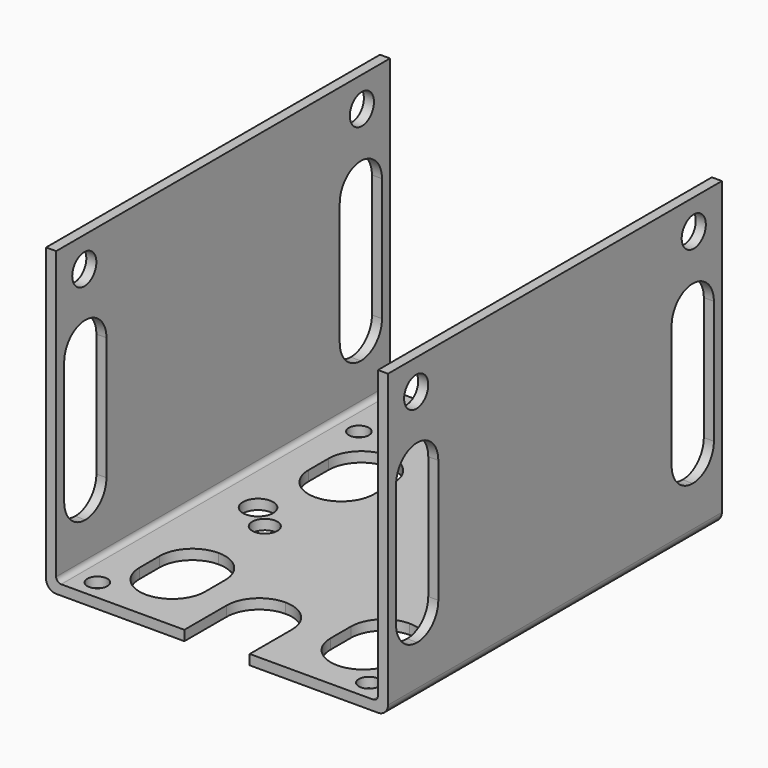
from build123d import *

# Parameters (mm, degrees)
F1_DEPTH  = 83
F3_DEPTH  = 68.001
F5_DEPTH  = 60.001
F6_R      = 3
F7_DEPTH  = 60.001
F8_R      = 2.5
F9_DEPTH  = 60.001
F10_R     = 2
F11_DEPTH = 60.001
F13_DEPTH = 60.001
F14_R     = 3
F15_DEPTH = 68.001


with BuildPart() as f1:
    # F0 (on Front) → F1 (new body)
    with BuildSketch(Plane.XZ):
        with BuildLine():
            ThreePointArc((0, 2), (0.585786, 0.585786), (2, 0))
            Line((2, 0), (66, 0))
            ThreePointArc((66, 0), (67.414214, 0.585786), (68, 2))
            Line((68, 2), (68, 60))
            Line((68, 60), (66, 60))
            Line((66, 60), (66, 3))
            ThreePointArc((66, 3), (65.707107, 2.292893), (65, 2))
            Line((65, 2), (3, 2))
            ThreePointArc((3, 2), (2.292893, 2.292893), (2, 3))
            Line((2, 3), (2, 60))
            Line((2, 60), (0, 60))
            Line((0, 60), (0, 2))
        make_face()
    extrude(amount=F1_DEPTH)

    # F2 (on face) → F3 (cut, through all)
    with BuildSketch(Plane.YZ.offset(68)):
        with BuildLine():
            Line((-81, 39.75), (-81, 15.25))
            ThreePointArc((-81, 15.25), (-79.462311, 11.537689), (-75.75, 10))
            ThreePointArc((-75.75, 10), (-72.037689, 11.537689), (-70.5, 15.25))
            Line((-70.5, 15.25), (-70.5, 39.75))
            ThreePointArc((-70.5, 39.75), (-72.037689, 43.462311), (-75.75, 45))
            ThreePointArc((-75.75, 45), (-79.462311, 43.462311), (-81, 39.75))
        make_face()
        with BuildLine():
            ThreePointArc((-7.25, 45), (-10.962311, 43.462311), (-12.5, 39.75))
            Line((-12.5, 39.75), (-12.5, 15.25))
            ThreePointArc((-12.5, 15.25), (-10.962311, 11.537689), (-7.25, 10))
            ThreePointArc((-7.25, 10), (-3.537689, 11.537689), (-2, 15.25))
            Line((-2, 15.25), (-2, 39.75))
            ThreePointArc((-2, 39.75), (-3.537689, 43.462311), (-7.25, 45))
        make_face()
    extrude(amount=-F3_DEPTH, mode=Mode.SUBTRACT)

    # F4 (on face) → F5 (cut, through all)
    with BuildSketch(Plane(origin=(0, 0, 0), x_dir=(1, 0, 0), z_dir=(0, 0, -1))):
        with BuildLine():
            Line((9, 71), (9, 66))
            ThreePointArc((9, 66), (10.903806, 61.403806), (15.5, 59.5))
            ThreePointArc((15.5, 59.5), (20.096194, 61.403806), (22, 66))
            Line((22, 66), (22, 71))
            ThreePointArc((22, 71), (20.096194, 75.596194), (15.5, 77.5))
            ThreePointArc((15.5, 77.5), (10.903806, 75.596194), (9, 71))
        make_face()
        with BuildLine():
            Line((60, 66), (60, 71))
            ThreePointArc((60, 71), (58.096194, 75.596194), (53.5, 77.5))
            ThreePointArc((53.5, 77.5), (48.903806, 75.596194), (47, 71))
            Line((47, 71), (47, 66))
            ThreePointArc((47, 66), (48.903806, 61.403806), (53.5, 59.5))
            ThreePointArc((53.5, 59.5), (58.096194, 61.403806), (60, 66))
        make_face()
        with BuildLine():
            Line((60, 24), (60, 29))
            ThreePointArc((60, 29), (58.096194, 33.596194), (53.5, 35.5))
            ThreePointArc((53.5, 35.5), (48.903806, 33.596194), (47, 29))
            Line((47, 29), (47, 24))
            ThreePointArc((47, 24), (48.903806, 19.403806), (53.5, 17.5))
            ThreePointArc((53.5, 17.5), (58.096194, 19.403806), (60, 24))
        make_face()
        with BuildLine():
            Line((22, 24), (22, 29))
            ThreePointArc((22, 29), (20.096194, 33.596194), (15.5, 35.5))
            ThreePointArc((15.5, 35.5), (10.903806, 33.596194), (9, 29))
            Line((9, 29), (9, 24))
            ThreePointArc((9, 24), (10.903806, 19.403806), (15.5, 17.5))
            ThreePointArc((15.5, 17.5), (20.096194, 19.403806), (22, 24))
        make_face()
    extrude(amount=-F5_DEPTH, mode=Mode.SUBTRACT)

    # F6 (on face) → F7 (cut, through all)
    with BuildSketch(Plane(origin=(0, 0, 0), x_dir=(1, 0, 0), z_dir=(0, 0, -1))):
        with Locations((57.25, 43.75)):
            Circle(F6_R)
        with Locations((10.75, 43.75)):
            Circle(F6_R)
    extrude(amount=-F7_DEPTH, mode=Mode.SUBTRACT)

    # F8 (on face) → F9 (cut, through all)
    with BuildSketch(Plane(origin=(0, 0, 0), x_dir=(1, 0, 0), z_dir=(0, 0, -1))):
        with Locations((15.5, 48)):
            Circle(F8_R)
        with Locations((52.5, 48)):
            Circle(F8_R)
    extrude(amount=-F9_DEPTH, mode=Mode.SUBTRACT)

    # F10 (on face) → F11 (cut, through all)
    with BuildSketch(Plane(origin=(0, 0, 0), x_dir=(1, 0, 0), z_dir=(0, 0, -1))):
        with Locations((7, 79)):
            Circle(F10_R)
        with Locations((61, 79)):
            Circle(F10_R)
        with Locations((7, 14)):
            Circle(F10_R)
        with Locations((61, 14)):
            Circle(F10_R)
    extrude(amount=-F11_DEPTH, mode=Mode.SUBTRACT)

    # F12 (on face) → F13 (cut, through all)
    with BuildSketch(Plane(origin=(0, 0, 0), x_dir=(1, 0, 0), z_dir=(0, 0, -1))):
        with BuildLine():
            Line((40.5, 83), (27.5, 83))
            Line((27.5, 83), (27.5, 72.5))
            ThreePointArc((27.5, 72.5), (29.403806, 67.903806), (34, 66))
            ThreePointArc((34, 66), (38.596194, 67.903806), (40.5, 72.5))
            Line((40.5, 72.5), (40.5, 83))
        make_face()
    extrude(amount=-F13_DEPTH, mode=Mode.SUBTRACT)

    # F14 (on face) → F15 (cut, through all)
    with BuildSketch(Plane(origin=(0, 0, 0), x_dir=(0, -1, 0), z_dir=(-1, 0, 0))):
        with Locations((7, 54)):
            Circle(F14_R)
        with Locations((76, 54)):
            Circle(F14_R)
    extrude(amount=-F15_DEPTH, mode=Mode.SUBTRACT)


solid = f1.part
